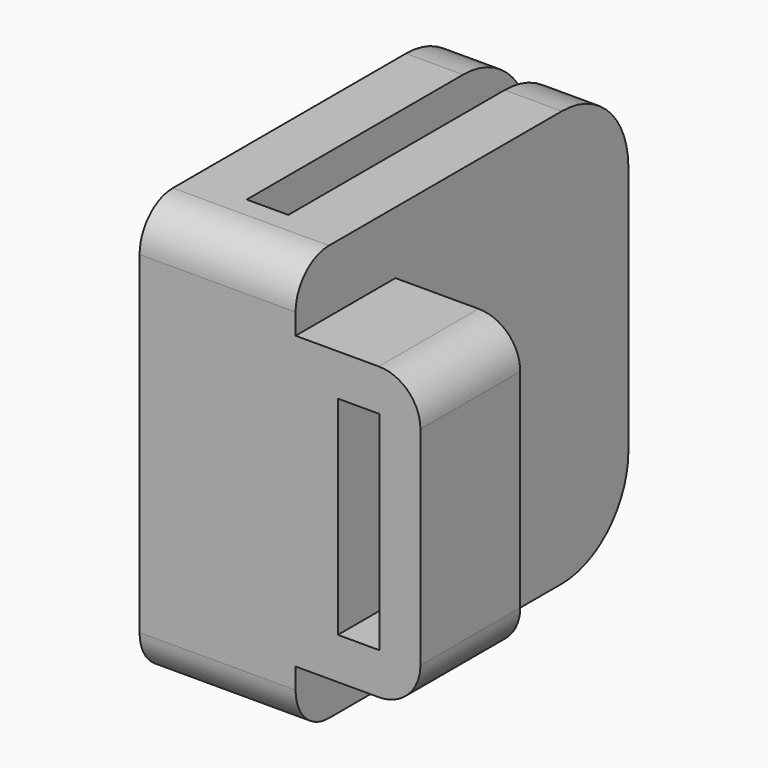
from build123d import *

# Parameters (mm, degrees)
PAD_DEPTH       = 20
SKETCH001_W     = 6
SKETCH001_H     = 14
PAD001_DEPTH    = 6
SKETCH002_W     = 2
SKETCH002_H     = 10
POCKET_DEPTH    = 10
FILLET_R        = 2
FILLET001_R     = 2
FILLET002_R     = 4
SKETCH003_W     = 2
SKETCH003_H     = 20
POCKET001_DEPTH = 17


with BuildPart() as part:
    # Sketch → Pad (new body)
    with BuildSketch(Plane.XY):
        Polygon((0, 0), (0, 20), (3, 20), (3, 3), (4.5, 3), (4.5, 20), (7.5, 20), (7.5, 0), align=None)
    extrude(amount=PAD_DEPTH)

    # Sketch001 (on Face7 of Pad) → Pad001 (join)
    with BuildSketch(Plane.YZ.offset(7.5)):
        with Locations((3, 10)):
            Rectangle(SKETCH001_W, SKETCH001_H)
    extrude(amount=PAD001_DEPTH)

    # Sketch002 (on Face7 of Pad001) → Pocket (cut)
    with BuildSketch(Plane.XZ):
        with Locations((10.531835, 10)):
            Rectangle(SKETCH002_W, SKETCH002_H)
    extrude(amount=-POCKET_DEPTH, mode=Mode.SUBTRACT)

    # Fillet
    fillet_edges = [part.edges().sort_by_distance(p)[0] for p in [
        (3.75, 0, 20),
        (3.75, 0, 0),
    ]]
    fillet(fillet_edges, radius=FILLET_R)

    # Fillet001
    fillet001_edges = [part.edges().sort_by_distance(p)[0] for p in [
        (13.5, 3, 17),
        (13.5, 3, 3),
    ]]
    fillet(fillet001_edges, radius=FILLET001_R)

    # Fillet002
    fillet002_edges = [part.edges().sort_by_distance(p)[0] for p in [
        (1.5, 20, 20),
        (6, 20, 20),
        (6, 20, 0),
        (1.5, 20, 0),
    ]]
    fillet(fillet002_edges, radius=FILLET002_R)

    # Sketch003 (on DatumPlane) → Pocket001 (cut)
    with BuildSketch(Plane(origin=(0, 20, 0), x_dir=(-1, 0, 0), z_dir=(0, 1, 0))):
        with Locations((-3.75, 10)):
            Rectangle(SKETCH003_W, SKETCH003_H)
    extrude(amount=-POCKET001_DEPTH, mode=Mode.SUBTRACT)


solid = part.part
